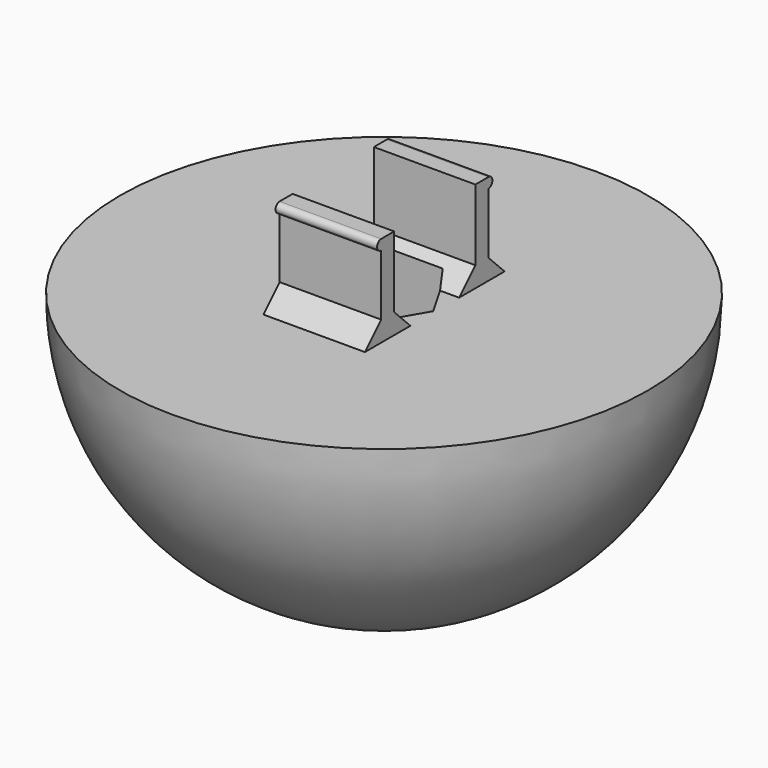
from build123d import *

# Parameters (mm, degrees)
SKETCH024_R          = 1.25
POCKET007_DEPTH      = 12.001
PAD001_DEPTH         = 2.5
POCKET008_DEPTH      = 7.5
POCKET008_DEPTH_BACK = 100


with BuildPart() as part:
    # Sketch023 → Revolution001 (revolve)
    with BuildSketch(Plane.YZ):
        with BuildLine():
            Line((0, 0), (0, 12))
            Line((0, 12), (13, 12))
            ThreePointArc((5, 0), (10.816654, 4.788897), (13, 12))
            Line((0, 0), (5, 0))
        make_face()
    revolve(axis=Axis((0, 0, 0), (0, 0, 1)))

    # Sketch024 → Pocket007 (cut, through all)
    with BuildSketch(Plane.XY):
        Circle(SKETCH024_R)
    extrude(amount=POCKET007_DEPTH, mode=Mode.SUBTRACT)

    # Sketch025 (on DatumPlane) → Pad001 (join, symmetric)
    with BuildSketch(Plane(origin=(0, 0, 12), x_dir=(0, 1, 0), z_dir=(1, 0, 0))):
        with BuildLine():
            ThreePointArc((-3.3, 4.5), (-3.55, 4.25), (-3.3, 4))
            Line((-3.3, 4), (-3.3, 1))
            Line((-3.3, 1), (-4.3, 0))
            Line((-4.3, 0), (-1.5, 0))
            Line((-1.5, 0), (-2.5, 1))
            Line((-2.5, 4.5), (-2.5, 1))
            Line((-3.3, 4.5), (-2.5, 4.5))
        make_face()
        with BuildLine():
            Line((4.3, 0), (1.5, 0))
            Line((2.5, 1), (1.5, 0))
            Line((2.5, 4.5), (2.5, 1))
            Line((3.3, 4.5), (2.5, 4.5))
            ThreePointArc((3.3, 4), (3.55, 4.25), (3.3, 4.5))
            Line((3.3, 1), (3.3, 4))
            Line((4.3, 0), (3.3, 1))
        make_face()
    extrude(amount=PAD001_DEPTH, both=True)

    # Sketch026 (on DatumPlane) → Pocket008 (cut, two sides)
    with BuildSketch(Plane.XY.offset(10)) as pocket008_sk:
        Polygon((1.212436, -2.1), (2.424871, 0), (1.212436, 2.1), (-1.212436, 2.1), (-2.424871, 0), (-1.212436, -2.1), align=None)
    extrude(amount=-POCKET008_DEPTH, mode=Mode.SUBTRACT)
    extrude(pocket008_sk.sketch, amount=POCKET008_DEPTH_BACK, mode=Mode.SUBTRACT)


with BuildPart() as part_1:
    # Body007 placement: moved
    add(part.part.moved(Location((0, -24, 0))))


solid = part_1.part
